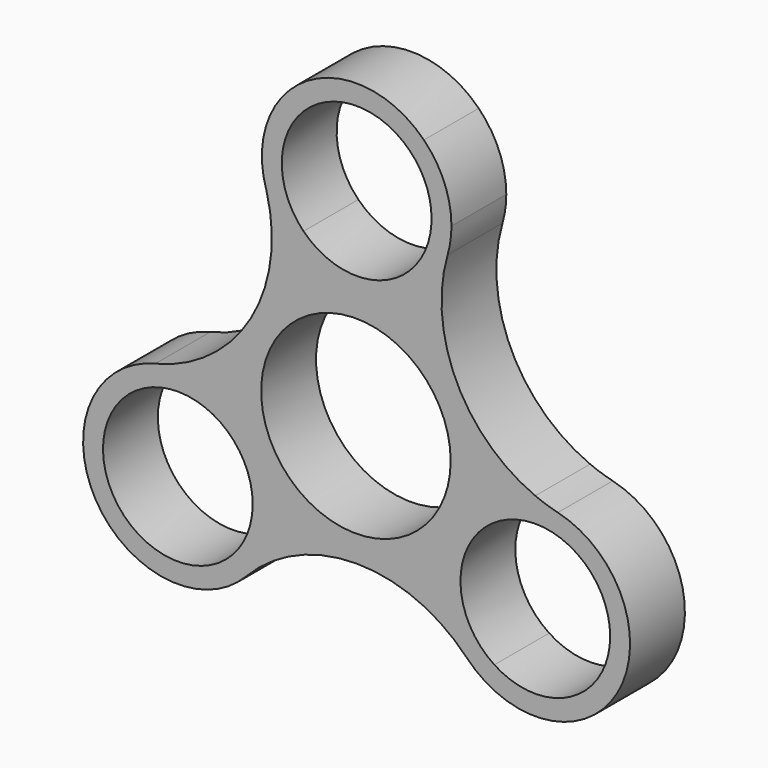
from build123d import *

# Parameters (mm, degrees)
F0_R     = 8.7753218572
F1_DEPTH = 6.35


with BuildPart() as f1:
    # F0 (on Front) → F1 (new body)
    with BuildSketch(Plane.XZ):
        with BuildLine():
            Line((8.7834438126, 19.115327031), (8.7753180449, 19.115327031))
            ThreePointArc((8.7753180449, 19.115327031), (8.1158254027, 22.4611173931), (6.2307064983, 25.3028722046))
            ThreePointArc((6.2307064983, 25.3028722046), (-4.4505028044, 26.673563518), (-8.4172791945, 16.6619846257))
            ThreePointArc((-8.4172791945, 16.6619846257), (-8.3844908458, 16.547589737), (-8.3526665154, 16.4329229223))
            ThreePointArc((-8.3526665154, 16.4329229223), (-9.8106463605, 5.532295474), (-18.6392198096, -1.0255757391))
            ThreePointArc((-18.6392198096, -1.0255757391), (-24.1599350394, -13.9350611847), (-10.2210623661, -15.6205699261))
            ThreePointArc((-10.2210623661, -15.6205699261), (-0.0047850834, -11.2618653325), (10.2077845484, -15.6292499923))
            ThreePointArc((10.2077845484, -15.6292499923), (24.148084509, -13.9555869055), (18.6383415606, -1.0414146996))
            ThreePointArc((18.6383415606, -1.0414146996), (17.5809373703, -0.7383140879), (16.5502978295, -0.3539240006))
            ThreePointArc((16.5502978295, -0.3539240006), (9.2433481318, 6.600298379), (8.4314352612, 16.6548257314))
            ThreePointArc((8.4314352612, 16.6548257314), (8.6949959346, 17.8725502343), (8.7834438126, 19.115327031))
        make_face()
        with BuildLine():
            ThreePointArc((-19.6872001667, -3.3644723848), (-12.9274465593, -3.6452218097), (-9.6260458218, -9.5506296907))
            ThreePointArc((-9.6260458218, -9.5506296907), (-20.189393023, -15.4560375718), (-19.6872001667, -3.3644723848))
        make_face(mode=Mode.SUBTRACT)
        with Locations((-0.0637440243, -0.0636884644)):
            Circle(F0_R, mode=Mode.SUBTRACT)
        with BuildLine():
            ThreePointArc((12.7573186389, -15.3673792813), (13.2515512011, -3.4674783406), (23.4826717993, -9.5646973403))
            ThreePointArc((23.4826717993, -9.5646973403), (19.8490444587, -15.6619163401), (12.7573186389, -15.3673792813))
        make_face(mode=Mode.SUBTRACT)
        with BuildLine():
            Line((-6.9544768432, 13.7717279244), (-6.9544670424, 13.7741073238))
            ThreePointArc((-6.9544670424, 13.7741073238), (-6.943095823, 13.7593168639), (-6.9316931846, 13.7445506127))
            Line((-6.9316931846, 13.7445506127), (-6.9316934696, 13.7422512771))
            ThreePointArc((-6.9316934696, 13.7422512771), (-6.9431007991, 13.75697751), (-6.9544768432, 13.7717279244))
        make_face(mode=Mode.SUBTRACT)
        with BuildLine():
            ThreePointArc((6.9298815278, 18.7318516666), (2.4688362723, 12.6343784947), (-4.9148938035, 14.2345766142))
            ThreePointArc((-4.9148938035, 14.2345766142), (-4.884841452, 24.0424621937), (4.9230157544, 24.0042561422))
            ThreePointArc((4.9230157544, 24.0042561422), (6.4163077672, 21.7597482397), (6.9404959307, 19.115327031))
            ThreePointArc((6.9404959307, 19.115327031), (6.9378418219, 18.9235159126), (6.9298815278, 18.7318516666))
        make_face(mode=Mode.SUBTRACT)
        with BuildLine():
            ThreePointArc((6.2307064983, 25.3028722046), (8.1158254027, 22.4611173931), (8.7753180449, 19.115327031))
            Line((8.7753180449, 19.115327031), (8.7834438126, 19.115327031))
            ThreePointArc((8.7834438126, 19.115327031), (8.1201949286, 22.4620486758), (6.2307064983, 25.3028722046))
        make_face()
        with BuildLine():
            ThreePointArc((-8.4172791945, 16.6619846257), (-4.4505028044, 26.673563518), (6.2307064983, 25.3028722046))
            ThreePointArc((6.2307064983, 25.3028722046), (-4.5601182711, 26.6209449467), (-8.3526665154, 16.4329229223))
            ThreePointArc((-8.3526665154, 16.4329229223), (-8.3844908458, 16.547589737), (-8.4172791945, 16.6619846257))
        make_face()
    extrude(amount=F1_DEPTH)


solid = f1.part
